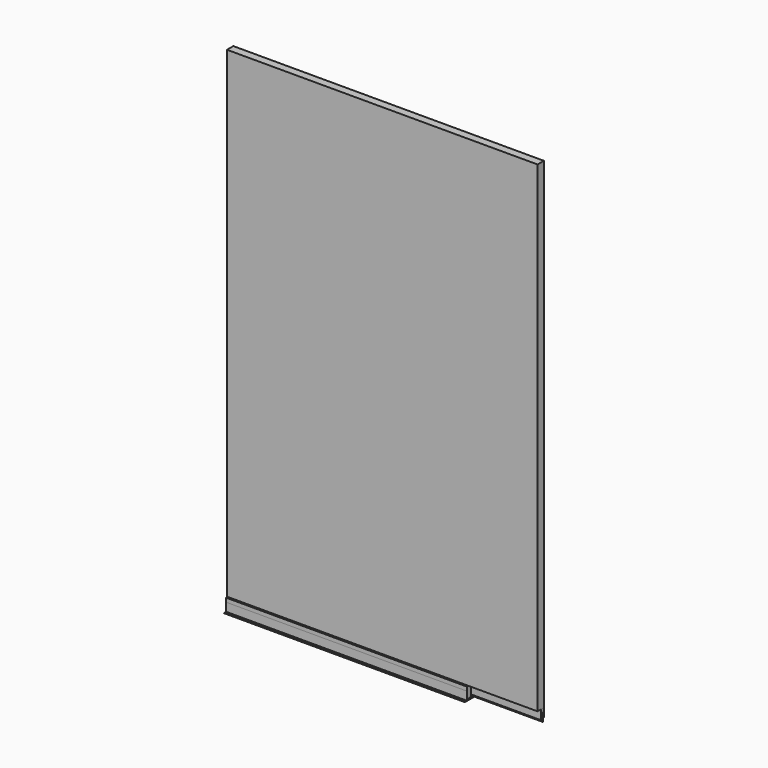
from build123d import *

# Parameters (mm, degrees)
F0_W     = 1.5
F0_H     = 9.402058
F0_H_2   = 25.597942
F1_DEPTH = 1290
F2_DEPTH = 1290
F3_DEPTH = 1000
F4_DEPTH = 1000
F5_DEPTH = 1290


with BuildPart() as f1:
    # F0 (on Right) → F1 (new body)
    with BuildSketch(Plane.YZ):
        Polygon((-18, 19.653404), (-18, 54.653404), (-19.5, 54.653404), (-19.5, 40.251346), (-19.5, 19.653404), align=None)
        with Locations((-23.75, 9.952375)):
            Rectangle(F0_W, F0_H)
        with Locations((-23.75, 27.452375)):
            Rectangle(F0_W, F0_H_2)
    extrude(amount=F1_DEPTH)


with BuildPart() as f2:
    # F0 (on Right) → F2 (new body, through all)
    with BuildSketch(Plane.YZ):
        Polygon((-19.5, 40.251346), (-19.5, 54.653404), (-32.5, 54.653404), (-32.5, 14.653404), (-24.5, 14.653404), (-24.5, 40.251346), (-23, 40.251346), align=None)
    extrude(amount=F2_DEPTH)


with BuildPart() as f3:
    # F0 (on Right) → F3 (new body)
    with BuildSketch(Plane.YZ):
        Polygon((-66, 0), (0, 0), (0, 36), (-1.5, 36), (-1.5, 1.5), (-20, 1.5), (-56, 1.5), (-66, 1.5), align=None)
        Polygon((-56, 53), (-56, 36.5), (-54.5, 36.5), (-54.5, 6), (-34, 6), (-34, 53), (-52.719209, 53), align=None)
    extrude(amount=F3_DEPTH)


with BuildPart() as f4:
    # F0 (on Right) → F4 (new body)
    with BuildSketch(Plane.YZ):
        Polygon((-56, 36.5), (-56, 1.5), (-20, 1.5), (-20, 36.5), (-21.5, 36.5), (-21.5, 3), (-54.5, 3), (-54.5, 6), (-54.5, 36.5), align=None)
    extrude(amount=F4_DEPTH)


with BuildPart() as f5:
    # F0 (on Right) → F5 (new body, through all)
    with BuildSketch(Plane.YZ):
        Polygon((-18, 54.653404), (-18, 2054.653404), (-51, 2054.653404), (-51, 54.653404), (-32.5, 54.653404), (-19.5, 54.653404), align=None)
    extrude(amount=F5_DEPTH)


solid = Compound([f1.part, f2.part, f3.part, f4.part, f5.part])
